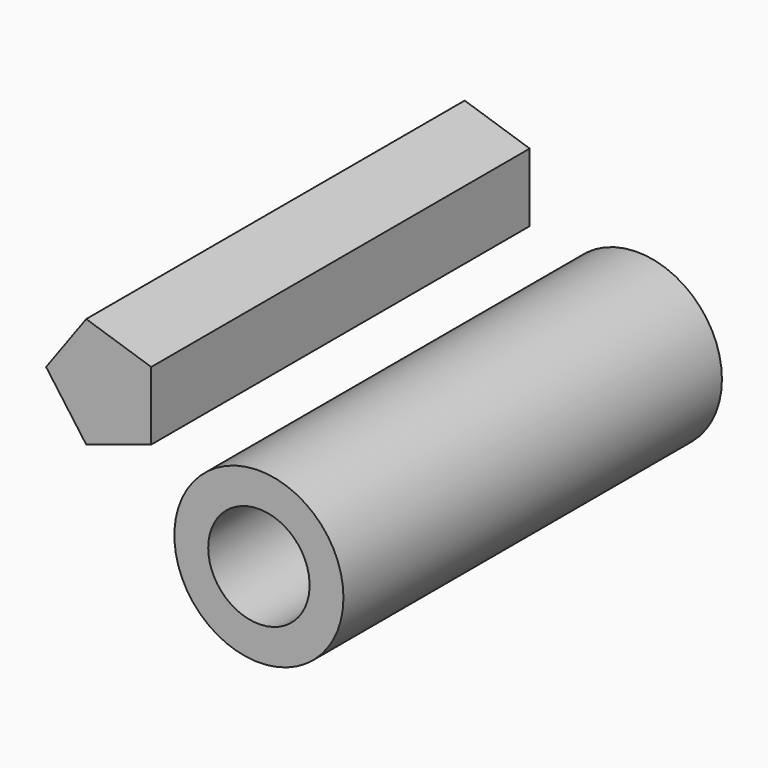
from build123d import *

# Parameters (mm, degrees)
F0_R     = 31.776086
F1_DEPTH = 177.8
F3_D     = 38.1
F5_DEPTH = 177.8


with BuildPart() as f1:
    # F0 (on Front) → F1 (new body)
    with BuildSketch(Plane.XZ):
        Circle(F0_R)
    extrude(amount=-F1_DEPTH)

    # F3 (through all)
    with Locations(Plane.XZ):
        with Locations((0, 0)):
            Hole(F3_D / 2)


with BuildPart() as f5:
    # F4 (on Front) → F5 (new body)
    with BuildSketch(Plane.XZ):
        Polygon((-40.471558, 27.165284), (-40.471558, 52.84472), (-64.894153, 60.780102), (-79.988146, 40.005002), (-64.894153, 19.229902), align=None)
        Polygon((-40.471558, 27.165284), (-40.471558, 52.84472), (-64.894153, 60.780102), (-79.988146, 40.005002), (-64.894153, 19.229902), align=None)
    extrude(amount=-F5_DEPTH)


solid = Compound([f1.part, f5.part])
